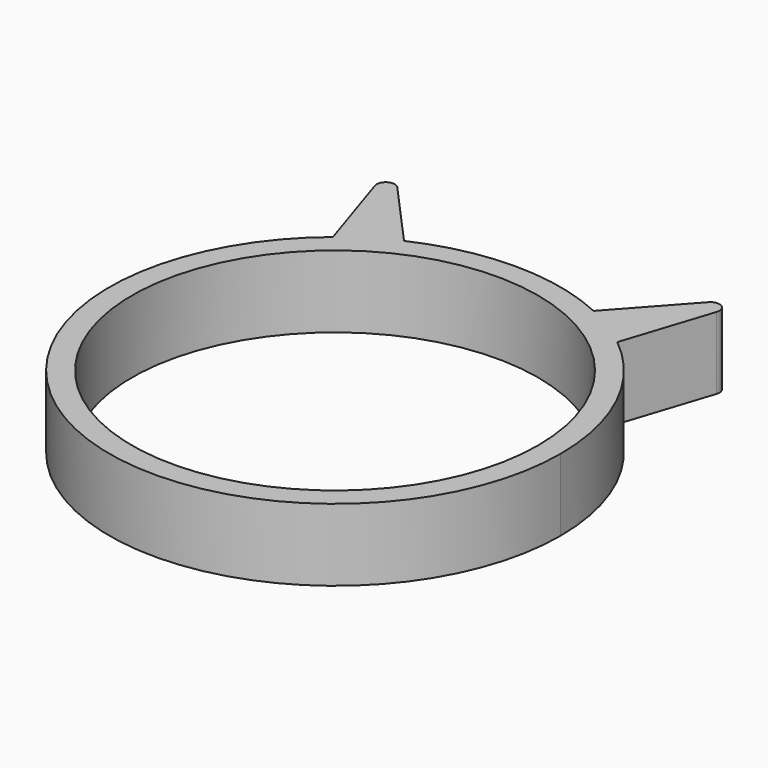
from build123d import *

# Parameters (mm, degrees)
F0_R     = 11.43
F1_DEPTH = 4.064
F2_R     = 0.508


with BuildPart() as f1:
    # F0 (on Top) → F1 (new body)
    with BuildSketch(Plane.XY):
        with BuildLine():
            ThreePointArc((-8.004683, 9.859769), (-5.460335, -11.466243), (12.7, 0))
            ThreePointArc((12.7, 0), (11.466243, 5.460335), (8.004683, 9.859769))
            ThreePointArc((8.004683, 9.859769), (6.721148, 10.775721), (5.334, 11.525556))
            ThreePointArc((5.334, 11.525556), (0, 12.7), (-5.334, 11.525556))
            ThreePointArc((-5.334, 11.525556), (-6.721148, 10.775721), (-8.004683, 9.859769))
        make_face()
        Circle(F0_R, mode=Mode.SUBTRACT)
        with BuildLine():
            ThreePointArc((5.334, 11.525556), (6.721148, 10.775721), (8.004683, 9.859769))
            Line((8.004683, 9.859769), (10.359392, 17.10682))
            Line((10.359392, 17.10682), (5.334, 11.525556))
        make_face()
        with BuildLine():
            Line((-10.359392, 17.10682), (-8.004683, 9.859769))
            ThreePointArc((-8.004683, 9.859769), (-6.721148, 10.775721), (-5.334, 11.525556))
            Line((-5.334, 11.525556), (-10.359392, 17.10682))
        make_face()
    extrude(amount=F1_DEPTH)

    # F2
    f2_edges = [f1.edges().sort_by_distance(p)[0] for p in [
        (10.359392, 17.10682, 2.032),
        (-10.359392, 17.10682, 2.032),
    ]]
    fillet(f2_edges, radius=F2_R)


solid = f1.part
